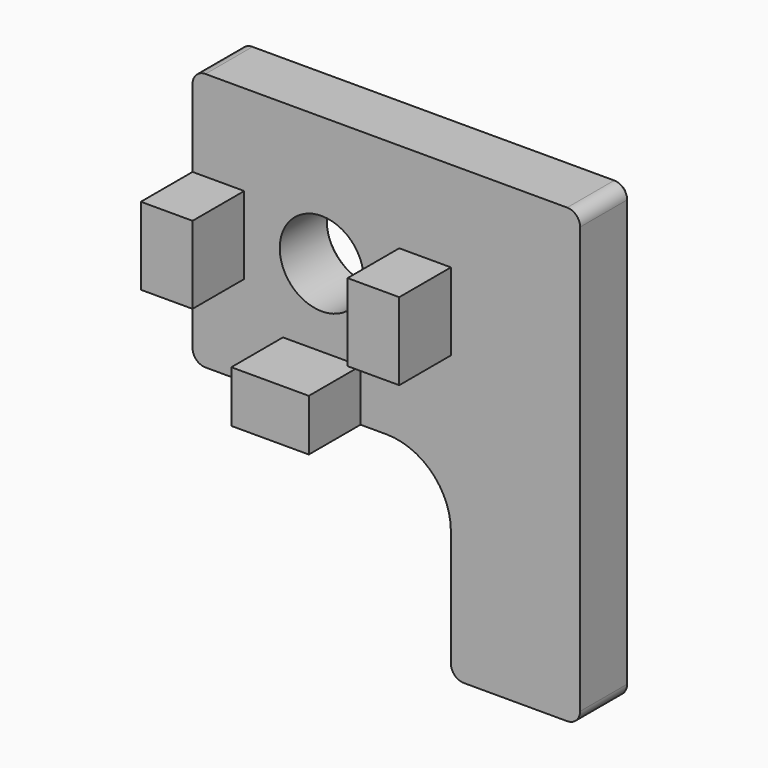
from build123d import *

# Parameters (mm, degrees)
SKETCH211_R   = 3.25
PAD055_DEPTH  = 5
SKETCH212_W   = 4
SKETCH212_H   = 6
SKETCH212_W_2 = 6
SKETCH212_H_2 = 4
PAD056_DEPTH  = 5
CHAMFER_SIZE  = 0.45


with BuildPart() as endstopper:
    # Sketch211 → Pad055 (new body)
    with BuildSketch(Plane.XZ):
        with BuildLine():
            Line((9, 10), (-19, 10))
            ThreePointArc((-19, 10), (-19.707107, 9.707107), (-20, 9))
            Line((-20, 9), (-20, -24))
            ThreePointArc((-20, -24), (-19.707107, -24.707107), (-19, -25))
            Line((-19, -25), (-11, -25))
            ThreePointArc((-11, -25), (-10.292893, -24.707107), (-10, -24))
            Line((-10, -24), (-10, -15))
            ThreePointArc((-5, -10), (-8.535534, -11.464466), (-10, -15))
            Line((-5, -10), (9, -10))
            ThreePointArc((9, -10), (9.707107, -9.707107), (10, -9))
            Line((10, 9), (10, -9))
            ThreePointArc((10, 9), (9.707107, 9.707107), (9, 10))
        make_face()
        Circle(SKETCH211_R, mode=Mode.SUBTRACT)
    extrude(amount=-PAD055_DEPTH)

    # Sketch212 → Pad056 (join)
    with BuildSketch(Plane.XZ):
        with Locations((-8, 0)):
            Rectangle(SKETCH212_W, SKETCH212_H)
        with Locations((8, 0)):
            Rectangle(SKETCH212_W, SKETCH212_H)
        with Locations((0, -8)):
            Rectangle(SKETCH212_W_2, SKETCH212_H_2)
    extrude(amount=PAD056_DEPTH)

    # Chamfer
    chamfer_edges = [endstopper.edges().sort_by_distance(p)[0] for p in [
        (9.707107, 5, 9.707107),
        (-5, 5, 10),
        (-19.707107, 5, 9.707107),
        (-20, 5, -7.5),
        (-19.707107, 5, -24.707107),
        (-15, 5, -25),
        (-10.292893, 5, -24.707107),
        (-10, 5, -19.5),
        (-8.535534, 5, -11.464466),
        (2, 5, -10),
        (9.707107, 5, -9.707107),
        (10, 5, 0),
        (-3.25, 5, 0),
    ]]
    chamfer(chamfer_edges, length=CHAMFER_SIZE)


with BuildPart() as endstopper_1:
    # Body022046 placement: moved
    add(endstopper.part.moved(Location((-113, 123, -62))))


with BuildPart() as endstopper_m:
    # Part__Mirroring: instance of EndStopper
    add(endstopper_1.part.mirror(Plane(origin=(0, 0, 0), x_dir=(0, -1, 0), z_dir=(1, 0, 0))))


solid = endstopper_m.part
